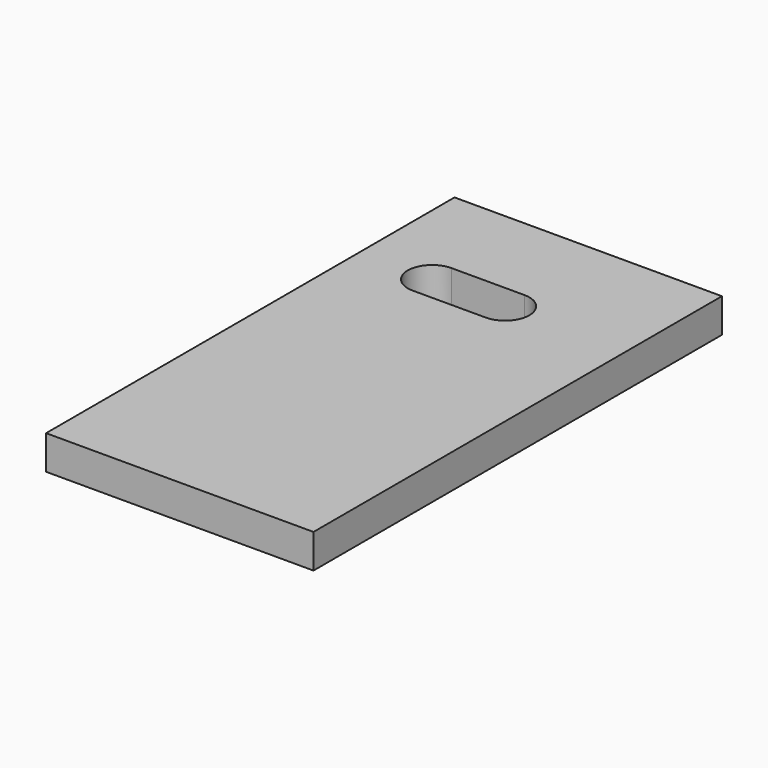
from build123d import *

# Parameters (mm, degrees)
EXTRUDE_DEPTH = 7
BOX074_W      = 7
BOX074_H      = 105
BOX074_DEPTH  = 55


with BuildPart() as wirecut:
    # Sketch014 (on Face1 of Box074) → Extrude (new body)
    with BuildSketch(Plane(origin=(340, 25, 107), x_dir=(0, -1, 0), z_dir=(0, 0, 1))):
        with BuildLine():
            ThreePointArc((-75.5, 30), (-80.5, 35), (-85.5, 30))
            Line((-85.5, 30), (-85.5, 15))
            ThreePointArc((-85.5, 15), (-80.5, 10), (-75.5, 15))
            Line((-75.5, 30), (-75.5, 15))
        make_face()
    extrude(amount=-EXTRUDE_DEPTH)


with BuildPart() as cut003:
    # Box074 → Box074 (new body)
    with BuildSketch(Plane(origin=(340, 25, 107), x_dir=(0, 0, -1), z_dir=(1, 0, 0))):
        with Locations((3.5, 52.5)):
            Rectangle(BOX074_W, BOX074_H)
    extrude(amount=BOX074_DEPTH)

    # Cut003: cut Wirecut
    add(wirecut.part, mode=Mode.SUBTRACT)


solid = cut003.part
